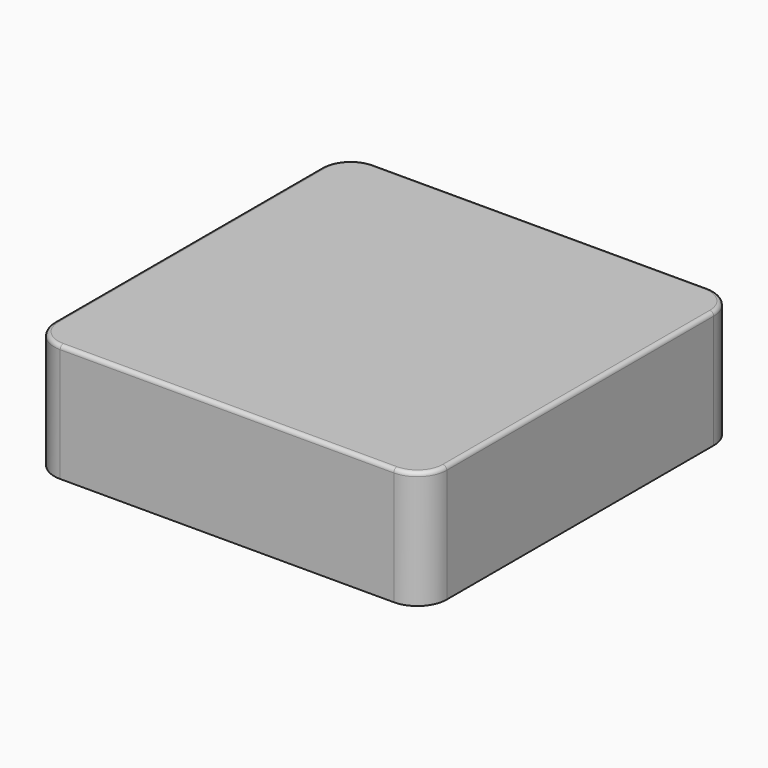
from build123d import *

# Parameters (mm, degrees)
F0_W     = 254
F0_H     = 254
F1_DEPTH = 76.2
F2_R     = 19.05
F3_R     = 2.54


with BuildPart() as f1:
    # F0 (on Top) → F1 (new body)
    with BuildSketch(Plane.XY):
        Rectangle(F0_W, F0_H)
    extrude(amount=F1_DEPTH)

    # F2
    f2_edges = [f1.edges().sort_by_distance(p)[0] for p in [
        (127, -127, 38.1),
        (127, 127, 38.1),
        (-127, 127, 38.1),
        (-127, -127, 38.1),
    ]]
    fillet(f2_edges, radius=F2_R)

    # F3
    f3_edges = [f1.edges().sort_by_distance(p)[0] for p in [
        (127, 0, 76.2),
    ]]
    fillet(f3_edges, radius=F3_R)


solid = f1.part
